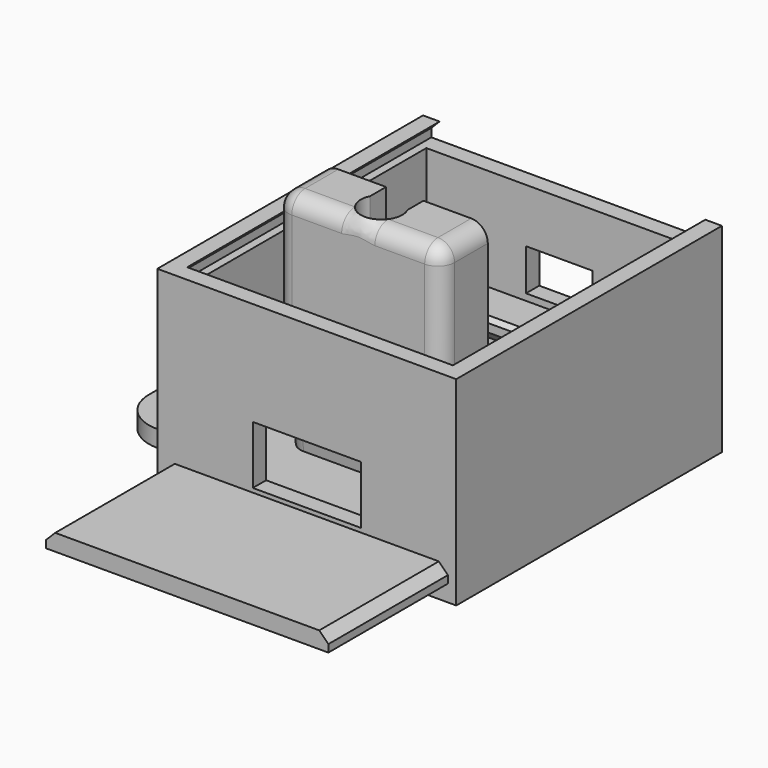
from build123d import *

# Parameters (mm, degrees)
PAD_DEPTH       = 10
POCKET_DEPTH    = 14
POCKET001_DEPTH = 1
POCKET002_DEPTH = 4
FILLET_R        = 2
CHAMFER_SIZE    = 0.5
CHAMFER001_SIZE = 0.49
SKETCH005_W     = 32
SKETCH005_H     = 36
PAD001_DEPTH    = 22
THICKNESS_T     = 2
SKETCH006_W     = 13
SKETCH006_H     = 7
POCKET003_DEPTH = 20.001
SKETCH007_W     = 8
SKETCH007_H     = 5
POCKET004_DEPTH = 20.001
POCKET005_DEPTH = 38
SKETCH009_R     = 2.5
PAD002_DEPTH    = 2
PAD003_DEPTH    = 38
PAD004_DEPTH    = 7.5


with BuildPart() as body:
    # Sketch → Pad (new body, symmetric)
    with BuildSketch(Plane.YZ):
        Polygon((-2.25, 14.8), (-2.25, 0), (2.25, 0), (3.915089, 11.734911), (2.35, 13.3), (2.35, 14.3), (2.85, 14.8), (4.35, 14.8), (7.35, 14.8), (4.824324, -3), (-9.748373, -3), (-12.25, 14.8), (-12.25, 29.8), (-5.25, 29.8), (-5.25, 14.8), align=None)
    extrude(amount=PAD_DEPTH, both=True)

    # Sketch001 (on Face13 of Pad) → Pocket (cut)
    with BuildSketch(Plane(origin=(0, 0, 29.8), x_dir=(0, -1, 0), z_dir=(0, 0, 1))):
        with BuildLine():
            Line((3.160275, 2.25), (3.160275, -2.25))
            Line((3.160275, -2.25), (7.660275, -2.25))
            ThreePointArc((7.660275, -2.25), (11.25, 0), (7.660275, 2.25))
            Line((7.660275, 2.25), (3.160275, 2.25))
        make_face()
    extrude(amount=-POCKET_DEPTH, mode=Mode.SUBTRACT)

    # Sketch002 (on Face13 of Pad) → Pocket001 (cut)
    with BuildSketch(Plane(origin=(0, 0, 24.8), x_dir=(0, -1, 0), z_dir=(0, 0, 1))):
        with BuildLine():
            Line((0.75, 3), (0.75, -3))
            Line((0.75, -3), (8.75, -3))
            ThreePointArc((8.75, -3), (11.75, 0), (8.75, 3))
            Line((8.75, 3), (0.75, 3))
        make_face()
    extrude(amount=-POCKET001_DEPTH, mode=Mode.SUBTRACT)

    # Sketch003 → Pocket002 (cut, symmetric)
    with BuildSketch(Plane.YZ):
        Polygon((12.35, 17.585771), (1.25, 7.617879), (-1.25, 7.617879), (-1.25, 16.8), (-11.25, 16.8), (-4.25, -1.5), (3.75, -1.5), (4.459459, 3.5), (12.35, 10.585771), align=None)
    extrude(amount=POCKET002_DEPTH, both=True, mode=Mode.SUBTRACT)

    # Fillet
    fillet_edges = [body.edges().sort_by_distance(p)[0] for p in [
        (10, -10.999187, 5.9),
        (10, -12.25, 22.3),
        (10, -8.75, 29.8),
        (0, -12.25, 29.8),
        (-10, -8.75, 29.8),
        (-10, -12.25, 22.3),
        (-10, -10.999187, 5.9),
        (10, 6.087162, 5.9),
        (-10, 6.087162, 5.9),
    ]]
    fillet(fillet_edges, radius=FILLET_R)

    # Chamfer
    chamfer_edges = [body.edges().sort_by_distance(p)[0] for p in [
        (0, 4.824324, -3),
        (-9.417733, 4.229107, -3),
        (9.417733, 4.229107, -3),
        (-10, -2.462213, -3),
        (10, -2.462213, -3),
        (-9.417667, -9.153334, -3),
        (9.417667, -9.153334, -3),
        (0, -9.748373, -3),
    ]]
    chamfer(chamfer_edges, length=CHAMFER_SIZE)

    # Chamfer001
    chamfer001_edges = [body.edges().sort_by_distance(p)[0] for p in [
        (-2.25, -6.455138, 24.8),
        (0, -11.25, 24.8),
        (2.25, -6.455138, 24.8),
    ]]
    chamfer(chamfer001_edges, length=CHAMFER001_SIZE)


with BuildPart() as boxbody:
    # Sketch005 → Pad001 (new body)
    with BuildSketch(Plane.XY):
        Rectangle(SKETCH005_W, SKETCH005_H)
    extrude(amount=PAD001_DEPTH)

    # Thickness
    thickness_openings = [boxbody.faces().sort_by_distance(p)[0] for p in [
        (0, 0, 22),
    ]]
    offset(amount=THICKNESS_T, openings=thickness_openings, kind=Kind.INTERSECTION)

    # Sketch006 → Pocket003 (cut, through all)
    with BuildSketch(Plane.XZ):
        with Locations((0, 6)):
            Rectangle(SKETCH006_W, SKETCH006_H)
    extrude(amount=POCKET003_DEPTH, mode=Mode.SUBTRACT)

    # Sketch007 → Pocket004 (cut, through all)
    with BuildSketch(Plane.XZ):
        with Locations((0, 11)):
            Rectangle(SKETCH007_W, SKETCH007_H)
    extrude(amount=-POCKET004_DEPTH, mode=Mode.SUBTRACT)

    # Sketch008 (on Face11 of Pocket004) → Pocket005 (cut)
    with BuildSketch(Plane(origin=(0, 20, 0), x_dir=(-1, 0, 0), z_dir=(0, 1, 0))):
        Polygon((-16, 22), (16, 22), (17, 21), (17, 20), (-17, 20), (-17, 21), align=None)
    extrude(amount=-POCKET005_DEPTH, mode=Mode.SUBTRACT)

    # Sketch009 → Pad002 (join)
    with BuildSketch(Plane.XY):
        with BuildLine():
            Line((-29, 7.5), (-29, -7.5))
            ThreePointArc((-29, -7.5), (-27.535534, -11.035534), (-24, -12.5))
            Line((-24, -12.5), (-14, -12.5))
            Line((-14, -12.5), (-14, 12.5))
            Line((-14, 12.5), (-24, 12.5))
            ThreePointArc((-24, 12.5), (-27.535534, 11.035534), (-29, 7.5))
        make_face()
        with Locations((-24, 7.5)):
            Circle(SKETCH009_R, mode=Mode.SUBTRACT)
        with Locations((-24, -7.5)):
            Circle(SKETCH009_R, mode=Mode.SUBTRACT)
    extrude(amount=-PAD002_DEPTH)


with BuildPart() as coverbody:
    # Sketch010 → Pad003 (new body)
    with BuildSketch(Plane.XZ):
        Polygon((-17, 0), (17, 0), (17, 0.9), (15.9, 2), (-15.9, 2), (-17, 0.9), align=None)
    extrude(amount=PAD003_DEPTH)

    # Sketch011 → Pad004 (join, symmetric)
    with BuildSketch(Plane.YZ):
        with BuildLine():
            Line((-4, 0), (-2, 0))
            ThreePointArc((-4, 0), (-3, -0.5), (-2, 0))
        make_face()
    extrude(amount=PAD004_DEPTH, both=True)


solid = Compound([body.part, boxbody.part, coverbody.part])
